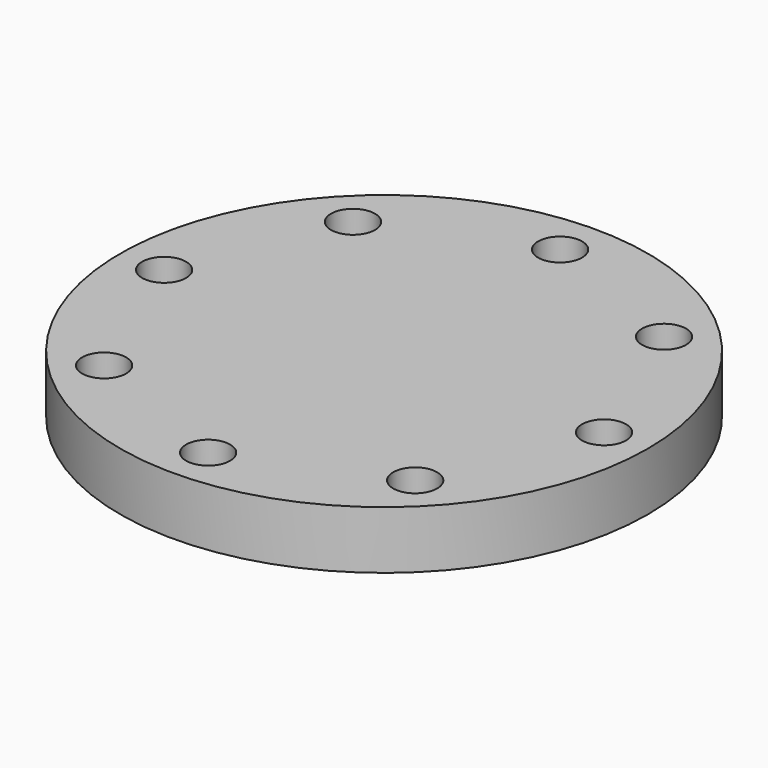
from build123d import *

# Parameters (mm, degrees)
F0_R     = 114
F0_R_2   = 9.5
F1_DEPTH = 25


with BuildPart() as f1:
    # F0 (on Top) → F1 (new body)
    with BuildSketch(Plane.XY):
        Circle(F0_R)
        with Locations((-67.175144, -67.175144)):
            Circle(F0_R_2, mode=Mode.SUBTRACT)
        with Locations((0, -95)):
            Circle(F0_R_2, mode=Mode.SUBTRACT)
        with Locations((67.175144, -67.175144)):
            Circle(F0_R_2, mode=Mode.SUBTRACT)
        with Locations((-95, 0)):
            Circle(F0_R_2, mode=Mode.SUBTRACT)
        with Locations((-67.175144, 67.175144)):
            Circle(F0_R_2, mode=Mode.SUBTRACT)
        with Locations((95, 0)):
            Circle(F0_R_2, mode=Mode.SUBTRACT)
        with Locations((0, 95)):
            Circle(F0_R_2, mode=Mode.SUBTRACT)
        with Locations((67.175144, 67.175144)):
            Circle(F0_R_2, mode=Mode.SUBTRACT)
    extrude(amount=F1_DEPTH)


solid = f1.part
